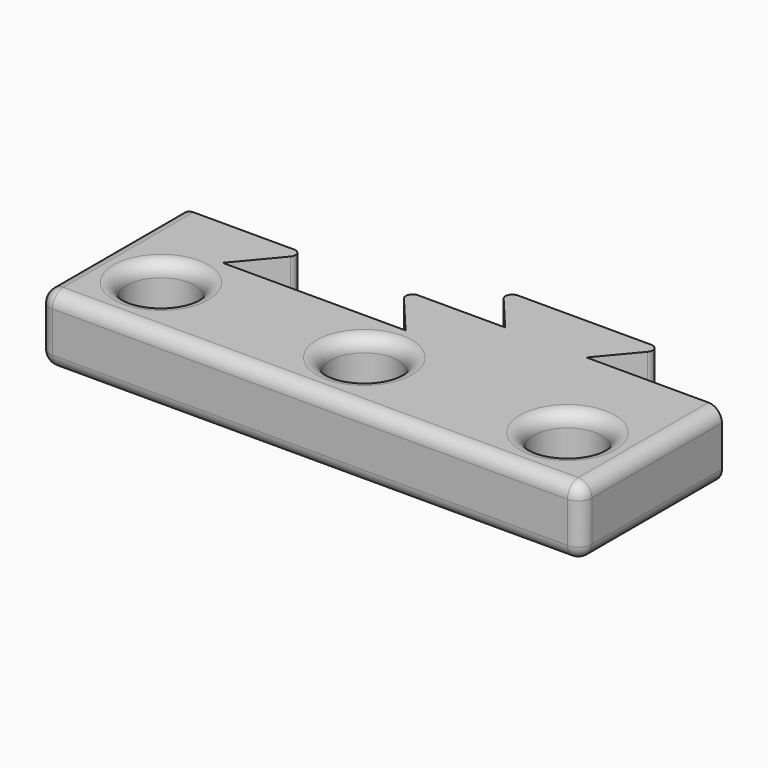
from build123d import *

# Parameters (mm, degrees)
F0_W     = 40
F0_H     = 13
F1_DEPTH = 5
F2_R     = 2.5
F3_DEPTH = 5.001
F5_DEPTH = 2.5
F7_DEPTH = 2.7
F8_R     = 1
F9_R     = 1
F10_R    = 0.5


with BuildPart() as f1:
    # F0 (on Top) → F1 (new body)
    with BuildSketch(Plane.XY):
        with Locations((20, 6.5)):
            Rectangle(F0_W, F0_H)
    extrude(amount=F1_DEPTH)

    # F2 (on face) → F3 (cut, through all)
    with BuildSketch(Plane.XY.offset(5)):
        with Locations((5, 5)):
            Circle(F2_R)
        with Locations((20, 5)):
            Circle(F2_R)
        with Locations((35, 5)):
            Circle(F2_R)
    extrude(amount=-F3_DEPTH, mode=Mode.SUBTRACT)

    # F4 (on face) → F5 (join)
    with BuildSketch(Plane.XY.offset(5)):
        Polygon((21, 16.5752607778), (24, 13), (30, 13), (33, 16.5752607778), align=None)
    extrude(amount=-F5_DEPTH)

    # F6 (on face) → F7 (cut)
    with BuildSketch(Plane.XY.offset(5)):
        Polygon((16.5, 13), (9.5, 13), (6.25, 9.1268008241), (19.75, 9.1268008241), align=None)
    extrude(amount=-F7_DEPTH, mode=Mode.SUBTRACT)

    # F8
    f8_edges = [f1.edges().sort_by_distance(p)[0] for p in [
        (0, 0, 2.5),
        (40, 0, 2.5),
        (0, 6.5, 5),
        (0, 6.5, 0),
        (40, 6.5, 5),
        (40, 6.5, 0),
        (20, 0, 5),
        (20, 0, 0),
    ]]
    fillet(f8_edges, radius=F8_R)

    # F9
    f9_edges = [f1.edges().sort_by_distance(p)[0] for p in [
        (2.5, 5, 5),
        (17.5, 5, 5),
        (32.5, 5, 5),
        (2.5, 5, 0),
        (17.5, 5, 0),
        (32.5, 5, 0),
    ]]
    fillet(f9_edges, radius=F9_R)

    # F10
    f10_edges = [f1.edges().sort_by_distance(p)[0] for p in [
        (21, 16.575261, 3.75),
        (33, 16.575261, 3.75),
        (9.5, 13, 3.65),
        (16.5, 13, 3.65),
    ]]
    fillet(f10_edges, radius=F10_R)


solid = f1.part
